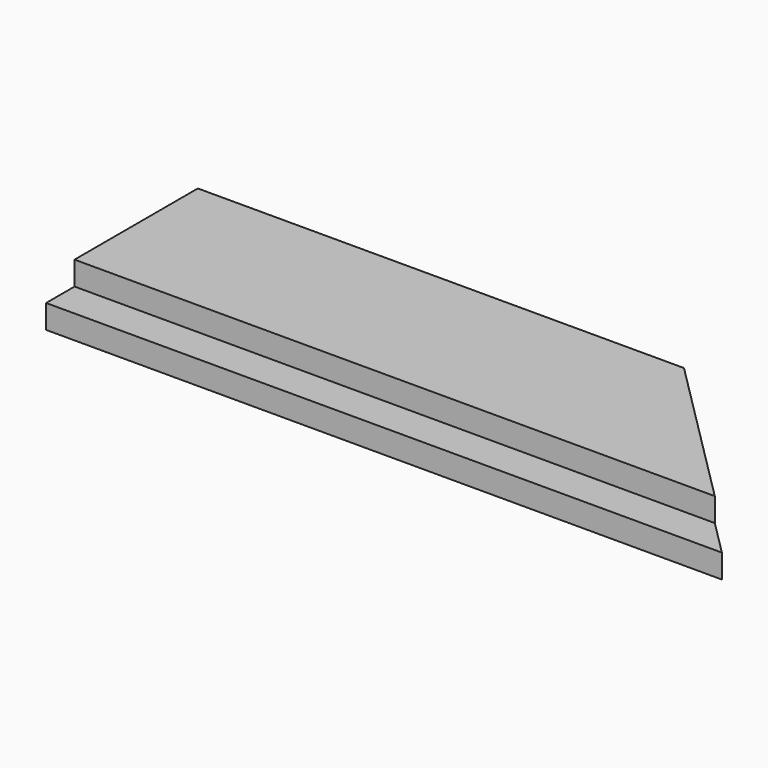
from build123d import *

# Parameters (mm, degrees)
F1_DEPTH = 12.7
F2_DEPTH = 12.7


with BuildPart() as f1:
    # F0 (on Top) → F1 (new body)
    with BuildSketch(Plane.XY):
        Polygon((140.862602, 44.572849), (-119.487398, 44.572849), (-119.487398, -37.977151), (223.412602, -37.977151), align=None)
    extrude(amount=F1_DEPTH)

    # F0 (on Top) + F1_face (on face) → F2 (join)
    with BuildSketch(Plane.XY):
        Polygon((140.862602, 44.572849), (-119.487398, 44.572849), (-119.487398, -37.977151), (223.412602, -37.977151), align=None)
        Polygon((223.412602, -37.977151), (-119.487398, -37.977151), (-119.487398, -57.027151), (242.462602, -57.027151), align=None)
    with BuildSketch(Plane(origin=(32.266461, 1.415129, 12.7), x_dir=(1, 0, 0), z_dir=(0, 0, 1))):
        Polygon((108.59614, 43.157719), (-151.75386, 43.157719), (-151.75386, -39.392281), (191.14614, -39.392281), align=None)
    extrude(amount=F2_DEPTH)


solid = f1.part
